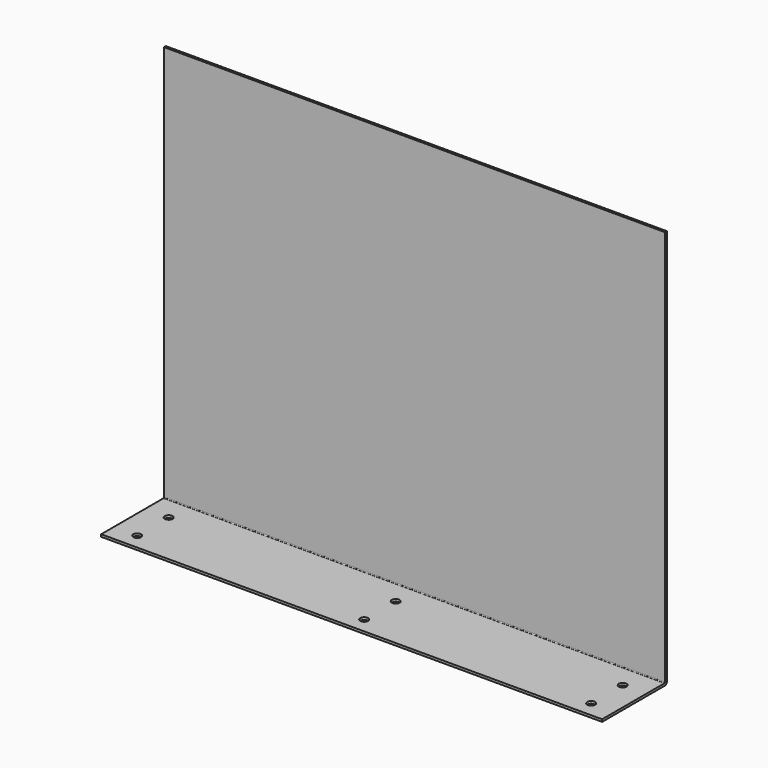
from build123d import *

# Parameters (mm, degrees)
F1_DEPTH = 320
F2_R     = 1.5
F3_R     = 0.5
F4_R     = 2.5
F5_DEPTH = 1.501


with BuildPart() as f1:
    # F0 (on Right) → F1 (new body)
    with BuildSketch(Plane.YZ):
        Polygon((0, 1.5), (0, 0), (51.65659, 0), (51.65659, 255), (50.15659, 255), (50.15659, 1.5), align=None)
    extrude(amount=F1_DEPTH)

    # F2
    f2_edges = [f1.edges().sort_by_distance(p)[0] for p in [
        (160, 51.65659, 0),
    ]]
    fillet(f2_edges, radius=F2_R)

    # F3
    f3_edges = [f1.edges().sort_by_distance(p)[0] for p in [
        (160, 50.15659, 1.5),
    ]]
    fillet(f3_edges, radius=F3_R)

    # F4 (on face) → F5 (cut, through all)
    with BuildSketch(Plane.XY.offset(1.5)):
        with Locations((15, 35.15659)):
            Circle(F4_R)
        with Locations((15, 10)):
            Circle(F4_R)
        with Locations((160, 10)):
            Circle(F4_R)
        with Locations((160, 35.15659)):
            Circle(F4_R)
        with Locations((305, 35.15659)):
            Circle(F4_R)
        with Locations((305, 10)):
            Circle(F4_R)
    extrude(amount=-F5_DEPTH, mode=Mode.SUBTRACT)


solid = f1.part
